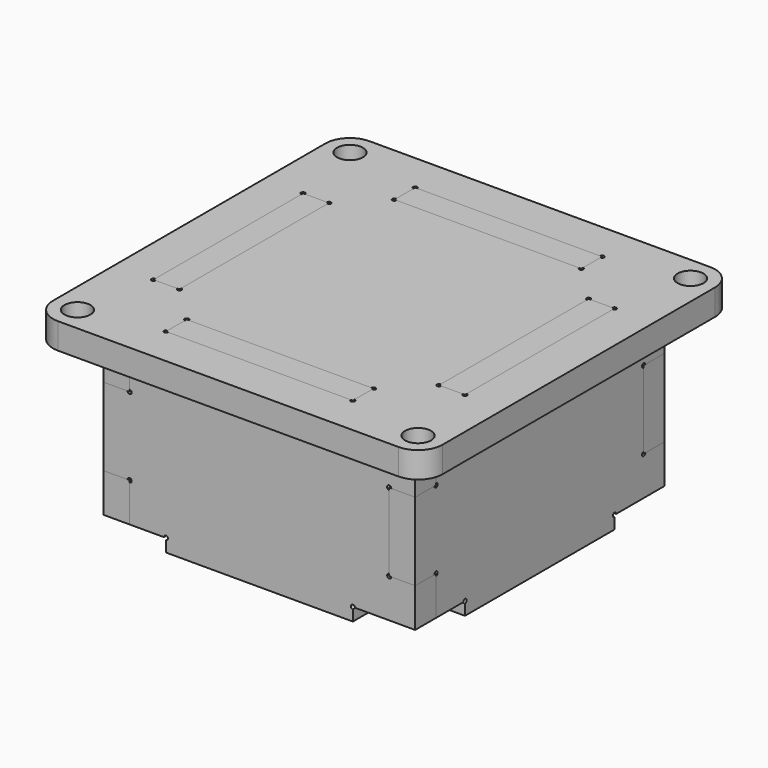
from build123d import *

# Parameters (mm, degrees)
PAD_DEPTH          = 3.175
SKETCH001_R        = 1.5875
POCKET_DEPTH       = 138.117014
POLARPATTERN_COUNT = 4
PAD001_DEPTH       = 3.175
ARRAY_COUNT        = 4


with BuildPart() as body:
    # Sketch → Pad (new body)
    with BuildSketch(Plane.XY):
        with BuildLine():
            Line((-20.828, -23.828), (20.828, -23.828))
            ThreePointArc((20.828, -23.828), (22.94932, -22.94932), (23.828, -20.828))
            Line((23.828, -20.828), (23.828, 20.828))
            ThreePointArc((23.828, 20.828), (22.94932, 22.94932), (20.828, 23.828))
            Line((20.828, 23.828), (-20.828, 23.828))
            ThreePointArc((-20.828, 23.828), (-22.94932, 22.94932), (-23.828, 20.828))
            Line((-23.828, 20.828), (-23.828, -20.828))
            ThreePointArc((-23.828, -20.828), (-22.94932, -22.94932), (-20.828, -23.828))
        make_face()
    extrude(amount=PAD_DEPTH)

    # Sketch001 → Pocket (cut, through all)
    with BuildSketch(Plane.XY):
        with Locations((-20.828, -20.828)):
            Circle(SKETCH001_R)
        with BuildLine():
            Line((-19.05, 11.176), (-19.05, -11.176))
            ThreePointArc((-19.05, -11.176), (-19.229605, -11.609605), (-18.796, -11.43))
            Line((-16.129, -11.43), (-18.796, -11.43))
            ThreePointArc((-16.129, -11.43), (-15.695395, -11.609605), (-15.875, -11.176))
            Line((-15.875, 11.176), (-15.875, -11.176))
            ThreePointArc((-15.875, 11.176), (-15.695395, 11.609605), (-16.129, 11.43))
            Line((-18.796, 11.43), (-16.129, 11.43))
            ThreePointArc((-18.796, 11.43), (-19.229605, 11.609605), (-19.05, 11.176))
        make_face()
    pocket = extrude(amount=POCKET_DEPTH, mode=Mode.SUBTRACT)

    # PolarPattern: Pocket ×4 about axis
    polarpattern_axis = Axis((0, 0, 0), (0, 0, 1))
    for i in range(1, POLARPATTERN_COUNT):
        add(pocket.rotate(polarpattern_axis, i * 360 / POLARPATTERN_COUNT), mode=Mode.SUBTRACT)


with BuildPart() as body_1:
    # Body placement: moved
    add(body.part.moved(Location((0, 0, 19.05))))


with BuildPart() as array:
    # Sketch002 → Pad001 (new body)
    with BuildSketch(Plane.XZ):
        with BuildLine():
            Line((19.05, 19.05), (11.684, 19.05))
            ThreePointArc((11.43, 19.304), (11.250395, 18.870395), (11.684, 19.05))
            Line((11.43, 22.225), (11.43, 19.304))
            Line((-11.43, 22.225), (11.43, 22.225))
            Line((-11.43, 19.304), (-11.43, 22.225))
            ThreePointArc((-11.684, 19.05), (-11.250395, 18.870395), (-11.43, 19.304))
            Line((-15.875, 19.05), (-11.684, 19.05))
            Line((-15.875, 19.05), (-15.875, 14.5415))
            ThreePointArc((-16.129, 14.2875), (-15.695395, 14.107895), (-15.875, 14.5415))
            Line((-16.129, 14.2875), (-19.05, 14.2875))
            Line((-19.05, 14.2875), (-19.05, 4.7625))
            Line((-19.05, 4.7625), (-16.129, 4.7625))
            ThreePointArc((-15.875, 4.5085), (-15.695395, 4.942105), (-16.129, 4.7625))
            Line((-15.875, 4.5085), (-15.875, 0))
            Line((-15.875, 0), (-11.684, 0))
            ThreePointArc((-11.43, -0.254), (-11.250395, 0.179605), (-11.684, 0))
            Line((-11.43, -0.254), (-11.43, -1.5748))
            Line((-11.43, -1.5748), (11.43, -1.5748))
            Line((11.43, -1.5748), (11.43, -0.254))
            ThreePointArc((11.684, 0), (11.250395, 0.179605), (11.43, -0.254))
            Line((11.684, 0), (19.05, 0))
            Line((19.05, 0), (19.05, 4.7625))
            Line((19.05, 4.7625), (16.129, 4.7625))
            ThreePointArc((15.875, 5.0165), (15.695395, 4.582895), (16.129, 4.7625))
            Line((15.875, 5.0165), (15.875, 14.0335))
            ThreePointArc((16.129, 14.2875), (15.695395, 14.467105), (15.875, 14.0335))
            Line((16.129, 14.2875), (19.05, 14.2875))
            Line((19.05, 14.2875), (19.05, 19.05))
        make_face()
    extrude(amount=PAD001_DEPTH)


with BuildPart() as array_1:
    # Body001 placement: moved
    add(array.part.moved(Location((0, -15.875, 0))))


with BuildPart() as array_copy1:
    # Array: instance of Array
    add(array_1.part.rotate(Axis((0, 0, 0), (0, 0, 1)), 1 * 360 / ARRAY_COUNT))


with BuildPart() as array_copy2:
    # Array: instance of Array
    add(array_1.part.rotate(Axis((0, 0, 0), (0, 0, 1)), 2 * 360 / ARRAY_COUNT))


with BuildPart() as array_copy3:
    # Array: instance of Array
    add(array_1.part.rotate(Axis((0, 0, 0), (0, 0, 1)), 3 * 360 / ARRAY_COUNT))


solid = Compound([body_1.part, array_1.part, array_copy1.part, array_copy2.part, array_copy3.part])
